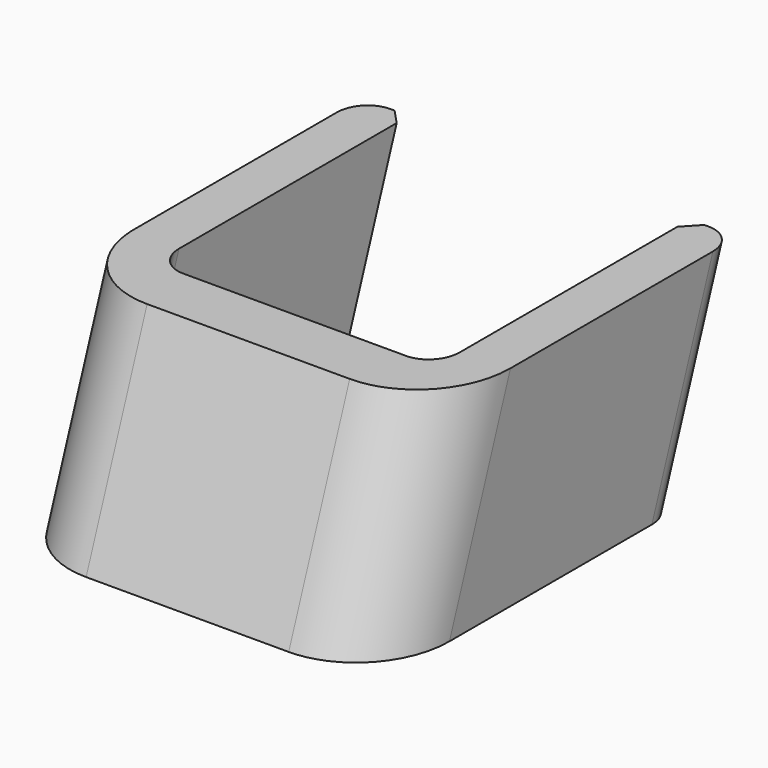
from build123d import *

# Parameters (mm, degrees)
F1_DEPTH = 6.5
F2_DEPTH = 4.85
F3_R     = 1
F4_SIZE  = 0.5
F5_R     = 3


with BuildPart() as f1:
    # F0 (on Right) → F1 (new body, symmetric)
    with BuildSketch(Plane.YZ):
        Polygon((4.633555, 7.235633), (2, 0), (13, 0), (15.633555, 7.235633), align=None)
        Polygon((2.633555, 7.235633), (0, 0), (2, 0), (4.633555, 7.235633), align=None)
    extrude(amount=F1_DEPTH, both=True)

    # F0 (on Right) → F2 (cut, symmetric)
    with BuildSketch(Plane.YZ):
        Polygon((4.633555, 7.235633), (2, 0), (13, 0), (15.633555, 7.235633), align=None)
    extrude(amount=F2_DEPTH, both=True, mode=Mode.SUBTRACT)

    # F3
    f3_edges = [f1.edges().sort_by_distance(p)[0] for p in [
        (4.85, 3.316778, 3.617817),
        (-4.85, 3.316778, 3.617817),
        (-6.5, 14.316778, 3.617817),
        (6.5, 14.316778, 3.617817),
    ]]
    fillet(f3_edges, radius=F3_R)

    # F4
    f4_edges = [f1.edges().sort_by_distance(p)[0] for p in [
        (4.85, 14.316778, 3.617817),
        (-4.85, 14.316778, 3.617817),
    ]]
    chamfer(f4_edges, length=F4_SIZE)

    # F5
    f5_edges = [f1.edges().sort_by_distance(p)[0] for p in [
        (6.5, 1.316778, 3.617817),
        (-6.5, 1.316778, 3.617817),
    ]]
    fillet(f5_edges, radius=F5_R)


solid = f1.part
